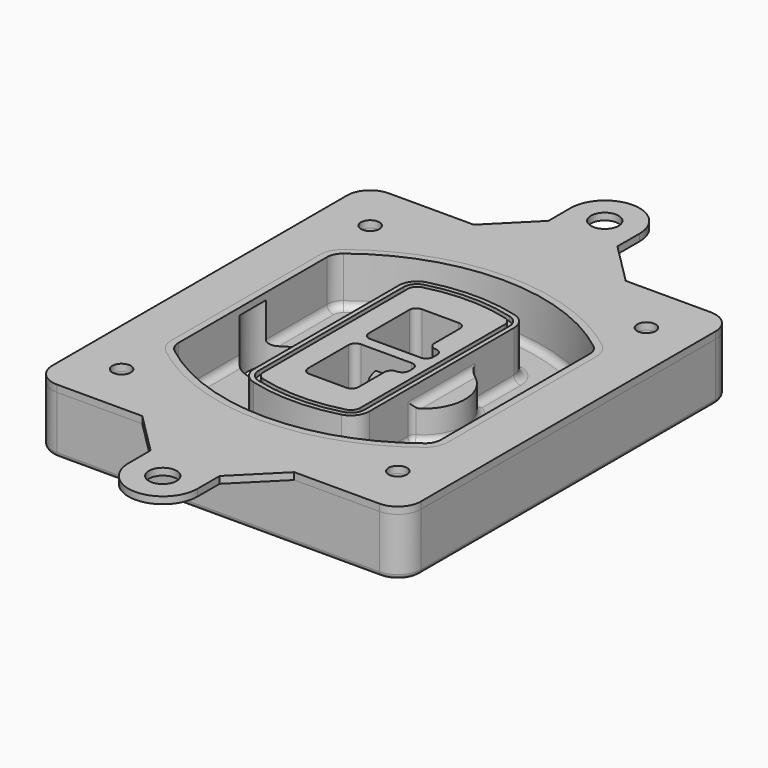
from build123d import *

# Parameters (mm, degrees)
F0_R      = 4
F1_DEPTH  = 25
F2_DEPTH  = 3
F3_DEPTH  = 18
F5_DEPTH  = 21
F6_DEPTH  = 2
F8_DEPTH  = 20
F9_DEPTH  = 16
F10_DEPTH = 25
F7_R      = 6
F7_R_2    = 4
F11_DEPTH = 6
F13_DEPTH = 9
F14_R     = 3
F15_R     = 2
F16_R     = 6
F16_R_2   = 4
F17_DEPTH = 3


with BuildPart() as f1:
    # F0 (on Top) → F1 (new body)
    with BuildSketch(Plane.XY):
        with BuildLine():
            ThreePointArc((-80, -80), (-77.0710678119, -87.0710678119), (-70, -90))
            Line((-70, -90), (70, -90))
            ThreePointArc((70, -90), (77.0710678119, -87.0710678119), (80, -80))
            Line((80, -80), (80, 80))
            ThreePointArc((80, 80), (77.0710678119, 87.0710678119), (70, 90))
            Line((70, 90), (-70, 90))
            ThreePointArc((-70, 90), (-77.0710678119, 87.0710678119), (-80, 80))
            Line((-80, 80), (-80, -80))
        make_face()
        with Locations((-60, -67.5)):
            Circle(F0_R, mode=Mode.SUBTRACT)
        with Locations((60, -67.5)):
            Circle(F0_R, mode=Mode.SUBTRACT)
        with Locations((-60, 67.5)):
            Circle(F0_R, mode=Mode.SUBTRACT)
        with BuildLine():
            ThreePointArc((-64, 40.2934422872), (-62.5820384798, 46.4328484224), (-58.6153846154, 51.3286200352))
            ThreePointArc((-58.6153846154, 51.3286200352), (0, 71.5), (58.6153846154, 51.3286200352))
            ThreePointArc((58.6153846154, 51.3286200352), (62.5820384798, 46.4328484224), (64, 40.2934422872))
            Line((64, 40.2934422872), (64, -40.2934422872))
            ThreePointArc((64, -40.2934422872), (62.5820384798, -46.4328484224), (58.6153846154, -51.3286200352))
            ThreePointArc((58.6153846154, -51.3286200352), (0, -71.5), (-58.6153846154, -51.3286200352))
            ThreePointArc((-58.6153846154, -51.3286200352), (-62.5820384798, -46.4328484224), (-64, -40.2934422872))
            Line((-64, -40.2934422872), (-64, 40.2934422872))
        make_face(mode=Mode.SUBTRACT)
        with Locations((60, 67.5)):
            Circle(F0_R, mode=Mode.SUBTRACT)
        with BuildLine():
            ThreePointArc((58.6153846154, 51.3286200352), (0, 71.5), (-58.6153846154, 51.3286200352))
            ThreePointArc((-58.6153846154, 51.3286200352), (-62.5820384798, 46.4328484224), (-64, 40.2934422872))
            Line((-64, 40.2934422872), (-64, -40.2934422872))
            ThreePointArc((-64, -40.2934422872), (-62.5820384798, -46.4328484224), (-58.6153846154, -51.3286200352))
            ThreePointArc((-58.6153846154, -51.3286200352), (0, -71.5), (58.6153846154, -51.3286200352))
            ThreePointArc((58.6153846154, -51.3286200352), (62.5820384798, -46.4328484224), (64, -40.2934422872))
            Line((64, -40.2934422872), (64, 40.2934422872))
            ThreePointArc((64, 40.2934422872), (62.5820384798, 46.4328484224), (58.6153846154, 51.3286200352))
        make_face()
        with BuildLine():
            Line((-60, -40.2934422872), (-60, 40.2934422872))
            ThreePointArc((-60, 40.2934422872), (-58.9871703427, 44.6787323838), (-56.1538461538, 48.1757121072))
            ThreePointArc((-56.1538461538, 48.1757121072), (0, 67.5), (56.1538461538, 48.1757121072))
            ThreePointArc((56.1538461538, 48.1757121072), (58.9871703427, 44.6787323838), (60, 40.2934422872))
            Line((60, 40.2934422872), (60, -40.2934422872))
            ThreePointArc((60, -40.2934422872), (58.9871703427, -44.6787323838), (56.1538461538, -48.1757121072))
            ThreePointArc((56.1538461538, -48.1757121072), (0, -67.5), (-56.1538461538, -48.1757121072))
            ThreePointArc((-56.1538461538, -48.1757121072), (-58.9871703427, -44.6787323838), (-60, -40.2934422872))
        make_face(mode=Mode.SUBTRACT)
        with BuildLine():
            ThreePointArc((-56.1538461538, 48.1757121072), (-58.9871703427, 44.6787323838), (-60, 40.2934422872))
            Line((-60, 40.2934422872), (-60, -40.2934422872))
            ThreePointArc((-60, -40.2934422872), (-58.9871703427, -44.6787323838), (-56.1538461538, -48.1757121072))
            ThreePointArc((-56.1538461538, -48.1757121072), (0, -67.5), (56.1538461538, -48.1757121072))
            ThreePointArc((56.1538461538, -48.1757121072), (58.9871703427, -44.6787323838), (60, -40.2934422872))
            Line((60, -40.2934422872), (60, 40.2934422872))
            ThreePointArc((60, 40.2934422872), (58.9871703427, 44.6787323838), (56.1538461538, 48.1757121072))
            ThreePointArc((56.1538461538, 48.1757121072), (0, 67.5), (-56.1538461538, 48.1757121072))
        make_face()
        with BuildLine():
            ThreePointArc((54.3076923077, 45.8110311612), (56.2910192399, 43.3631453548), (57, 40.2934422872))
            Line((57, 40.2934422872), (57, -40.2934422872))
            ThreePointArc((57, -40.2934422872), (56.2910192399, -43.3631453548), (54.3076923077, -45.8110311612))
            ThreePointArc((54.3076923077, -45.8110311612), (0, -64.5), (-54.3076923077, -45.8110311612))
            ThreePointArc((-54.3076923077, -45.8110311612), (-56.2910192399, -43.3631453548), (-57, -40.2934422872))
            Line((-57, -40.2934422872), (-57, 40.2934422872))
            ThreePointArc((-57, 40.2934422872), (-56.2910192399, 43.3631453548), (-54.3076923077, 45.8110311612))
            ThreePointArc((-54.3076923077, 45.8110311612), (0, 64.5), (54.3076923077, 45.8110311612))
        make_face(mode=Mode.SUBTRACT)
        with BuildLine():
            Line((57, -40.2934422872), (57, 40.2934422872))
            ThreePointArc((57, 40.2934422872), (56.2910192399, 43.3631453548), (54.3076923077, 45.8110311612))
            ThreePointArc((54.3076923077, 45.8110311612), (0, 64.5), (-54.3076923077, 45.8110311612))
            ThreePointArc((-54.3076923077, 45.8110311612), (-56.2910192399, 43.3631453548), (-57, 40.2934422872))
            Line((-57, 40.2934422872), (-57, -40.2934422872))
            ThreePointArc((-57, -40.2934422872), (-56.2910192399, -43.3631453548), (-54.3076923077, -45.8110311612))
            ThreePointArc((-54.3076923077, -45.8110311612), (0, -64.5), (54.3076923077, -45.8110311612))
            ThreePointArc((54.3076923077, -45.8110311612), (56.2910192399, -43.3631453548), (57, -40.2934422872))
        make_face()
    extrude(amount=-F1_DEPTH)

    # F0 (on Top) → F2 (join)
    with BuildSketch(Plane.XY):
        with BuildLine():
            ThreePointArc((-56.1538461538, 48.1757121072), (-58.9871703427, 44.6787323838), (-60, 40.2934422872))
            Line((-60, 40.2934422872), (-60, -40.2934422872))
            ThreePointArc((-60, -40.2934422872), (-58.9871703427, -44.6787323838), (-56.1538461538, -48.1757121072))
            ThreePointArc((-56.1538461538, -48.1757121072), (0, -67.5), (56.1538461538, -48.1757121072))
            ThreePointArc((56.1538461538, -48.1757121072), (58.9871703427, -44.6787323838), (60, -40.2934422872))
            Line((60, -40.2934422872), (60, 40.2934422872))
            ThreePointArc((60, 40.2934422872), (58.9871703427, 44.6787323838), (56.1538461538, 48.1757121072))
            ThreePointArc((56.1538461538, 48.1757121072), (0, 67.5), (-56.1538461538, 48.1757121072))
        make_face()
        with BuildLine():
            ThreePointArc((54.3076923077, 45.8110311612), (56.2910192399, 43.3631453548), (57, 40.2934422872))
            Line((57, 40.2934422872), (57, -40.2934422872))
            ThreePointArc((57, -40.2934422872), (56.2910192399, -43.3631453548), (54.3076923077, -45.8110311612))
            ThreePointArc((54.3076923077, -45.8110311612), (0, -64.5), (-54.3076923077, -45.8110311612))
            ThreePointArc((-54.3076923077, -45.8110311612), (-56.2910192399, -43.3631453548), (-57, -40.2934422872))
            Line((-57, -40.2934422872), (-57, 40.2934422872))
            ThreePointArc((-57, 40.2934422872), (-56.2910192399, 43.3631453548), (-54.3076923077, 45.8110311612))
            ThreePointArc((-54.3076923077, 45.8110311612), (0, 64.5), (54.3076923077, 45.8110311612))
        make_face(mode=Mode.SUBTRACT)
    extrude(amount=F2_DEPTH)

    # F0 (on Top) → F3 (cut)
    with BuildSketch(Plane.XY):
        with BuildLine():
            Line((57, -40.2934422872), (57, 40.2934422872))
            ThreePointArc((57, 40.2934422872), (56.2910192399, 43.3631453548), (54.3076923077, 45.8110311612))
            ThreePointArc((54.3076923077, 45.8110311612), (0, 64.5), (-54.3076923077, 45.8110311612))
            ThreePointArc((-54.3076923077, 45.8110311612), (-56.2910192399, 43.3631453548), (-57, 40.2934422872))
            Line((-57, 40.2934422872), (-57, -40.2934422872))
            ThreePointArc((-57, -40.2934422872), (-56.2910192399, -43.3631453548), (-54.3076923077, -45.8110311612))
            ThreePointArc((-54.3076923077, -45.8110311612), (0, -64.5), (54.3076923077, -45.8110311612))
            ThreePointArc((54.3076923077, -45.8110311612), (56.2910192399, -43.3631453548), (57, -40.2934422872))
        make_face()
    extrude(amount=-F3_DEPTH, mode=Mode.SUBTRACT)

    # F4 (on face) → F5 (join, through all)
    with BuildSketch(Plane.XY.offset(3)):
        with BuildLine():
            ThreePointArc((-25, -39.2465276821), (-23.3511545998, -44.1109737193), (-19.0842911877, -46.9702398883))
            ThreePointArc((-19.0842911877, -46.9702398883), (0, -49.5), (19.0842911877, -46.9702398883))
            ThreePointArc((19.0842911877, -46.9702398883), (23.3511545998, -44.1109737193), (25, -39.2465276821))
            Line((25, -39.2465276821), (25, 39.2465276821))
            ThreePointArc((25, 39.2465276821), (23.3511545998, 44.1109737193), (19.0842911877, 46.9702398883))
            ThreePointArc((19.0842911877, 46.9702398883), (0, 49.5), (-19.0842911877, 46.9702398883))
            ThreePointArc((-19.0842911877, 46.9702398883), (-23.3511545998, 44.1109737193), (-25, 39.2465276821))
            Line((-25, 39.2465276821), (-25, -39.2465276821))
        make_face()
        with BuildLine():
            ThreePointArc((18.5632183908, 45.0393118368), (21.7633659499, 42.89486221), (23, 39.2465276821))
            Line((23, 39.2465276821), (23, -39.2465276821))
            ThreePointArc((23, -39.2465276821), (21.7633659499, -42.89486221), (18.5632183908, -45.0393118368))
            ThreePointArc((18.5632183908, -45.0393118368), (0, -47.5), (-18.5632183908, -45.0393118368))
            ThreePointArc((-18.5632183908, -45.0393118368), (-21.7633659499, -42.89486221), (-23, -39.2465276821))
            Line((-23, -39.2465276821), (-23, 39.2465276821))
            ThreePointArc((-23, 39.2465276821), (-21.7633659499, 42.89486221), (-18.5632183908, 45.0393118368))
            ThreePointArc((-18.5632183908, 45.0393118368), (0, 47.5), (18.5632183908, 45.0393118368))
        make_face(mode=Mode.SUBTRACT)
        with BuildLine():
            Line((23, -39.2465276821), (23, 39.2465276821))
            ThreePointArc((23, 39.2465276821), (21.7633659499, 42.89486221), (18.5632183908, 45.0393118368))
            ThreePointArc((18.5632183908, 45.0393118368), (0, 47.5), (-18.5632183908, 45.0393118368))
            ThreePointArc((-18.5632183908, 45.0393118368), (-21.7633659499, 42.89486221), (-23, 39.2465276821))
            Line((-23, 39.2465276821), (-23, -39.2465276821))
            ThreePointArc((-23, -39.2465276821), (-21.7633659499, -42.89486221), (-18.5632183908, -45.0393118368))
            ThreePointArc((-18.5632183908, -45.0393118368), (0, -47.5), (18.5632183908, -45.0393118368))
            ThreePointArc((18.5632183908, -45.0393118368), (21.7633659499, -42.89486221), (23, -39.2465276821))
        make_face()
        with BuildLine():
            ThreePointArc((18.0421455939, 43.1083837852), (20.1755772999, 41.6787507007), (21, 39.2465276821))
            Line((21, 39.2465276821), (21, -39.2465276821))
            ThreePointArc((21, -39.2465276821), (20.1755772999, -41.6787507007), (18.0421455939, -43.1083837852))
            ThreePointArc((18.0421455939, -43.1083837852), (0, -45.5), (-18.0421455939, -43.1083837852))
            ThreePointArc((-18.0421455939, -43.1083837852), (-20.1755772999, -41.6787507007), (-21, -39.2465276821))
            Line((-21, -39.2465276821), (-21, 39.2465276821))
            ThreePointArc((-21, 39.2465276821), (-20.1755772999, 41.6787507007), (-18.0421455939, 43.1083837852))
            ThreePointArc((-18.0421455939, 43.1083837852), (0, 45.5), (18.0421455939, 43.1083837852))
        make_face(mode=Mode.SUBTRACT)
        with BuildLine():
            Line((21, -39.2465276821), (21, 39.2465276821))
            ThreePointArc((21, 39.2465276821), (20.1755772999, 41.6787507007), (18.0421455939, 43.1083837852))
            ThreePointArc((18.0421455939, 43.1083837852), (0, 45.5), (-18.0421455939, 43.1083837852))
            ThreePointArc((-18.0421455939, 43.1083837852), (-20.1755772999, 41.6787507007), (-21, 39.2465276821))
            Line((-21, 39.2465276821), (-21, -39.2465276821))
            ThreePointArc((-21, -39.2465276821), (-20.1755772999, -41.6787507007), (-18.0421455939, -43.1083837852))
            ThreePointArc((-18.0421455939, -43.1083837852), (0, -45.5), (18.0421455939, -43.1083837852))
            ThreePointArc((18.0421455939, -43.1083837852), (20.1755772999, -41.6787507007), (21, -39.2465276821))
        make_face()
        with BuildLine():
            Line((-8, -2.5), (14, -2.5))
            ThreePointArc((14, -2.5), (16.1213203436, -3.3786796564), (17, -5.5))
            Line((17, -5.5), (17, -7.5))
            ThreePointArc((17, -7.5), (16.1213203436, -9.6213203436), (14, -10.5))
            ThreePointArc((14, -10.5), (11.8786796564, -11.3786796564), (11, -13.5))
            Line((11, -13.5), (11, -27.5))
            ThreePointArc((11, -27.5), (10.1213203436, -29.6213203436), (8, -30.5))
            Line((8, -30.5), (-8, -30.5))
            ThreePointArc((-8, -30.5), (-10.1213203436, -29.6213203436), (-11, -27.5))
            Line((-11, -27.5), (-11, -5.5))
            ThreePointArc((-11, -5.5), (-10.1213203436, -3.3786796564), (-8, -2.5))
        make_face(mode=Mode.SUBTRACT)
        with BuildLine():
            ThreePointArc((-8, 2.5), (-10.1213203436, 3.3786796564), (-11, 5.5))
            Line((-11, 5.5), (-11, 27.5))
            ThreePointArc((-11, 27.5), (-10.1213203436, 29.6213203436), (-8, 30.5))
            Line((-8, 30.5), (8, 30.5))
            ThreePointArc((8, 30.5), (10.1213203436, 29.6213203436), (11, 27.5))
            Line((11, 27.5), (11, 13.5))
            ThreePointArc((11, 13.5), (11.8786796564, 11.3786796564), (14, 10.5))
            ThreePointArc((14, 10.5), (16.1213203436, 9.6213203436), (17, 7.5))
            Line((17, 7.5), (17, 5.5))
            ThreePointArc((17, 5.5), (16.1213203436, 3.3786796564), (14, 2.5))
            Line((14, 2.5), (-8, 2.5))
        make_face(mode=Mode.SUBTRACT)
    extrude(amount=-F5_DEPTH)

    # F4 (on face) → F6 (cut)
    with BuildSketch(Plane.XY.offset(3)):
        with BuildLine():
            Line((23, -39.2465276821), (23, 39.2465276821))
            ThreePointArc((23, 39.2465276821), (21.7633659499, 42.89486221), (18.5632183908, 45.0393118368))
            ThreePointArc((18.5632183908, 45.0393118368), (0, 47.5), (-18.5632183908, 45.0393118368))
            ThreePointArc((-18.5632183908, 45.0393118368), (-21.7633659499, 42.89486221), (-23, 39.2465276821))
            Line((-23, 39.2465276821), (-23, -39.2465276821))
            ThreePointArc((-23, -39.2465276821), (-21.7633659499, -42.89486221), (-18.5632183908, -45.0393118368))
            ThreePointArc((-18.5632183908, -45.0393118368), (0, -47.5), (18.5632183908, -45.0393118368))
            ThreePointArc((18.5632183908, -45.0393118368), (21.7633659499, -42.89486221), (23, -39.2465276821))
        make_face()
        with BuildLine():
            ThreePointArc((18.0421455939, 43.1083837852), (20.1755772999, 41.6787507007), (21, 39.2465276821))
            Line((21, 39.2465276821), (21, -39.2465276821))
            ThreePointArc((21, -39.2465276821), (20.1755772999, -41.6787507007), (18.0421455939, -43.1083837852))
            ThreePointArc((18.0421455939, -43.1083837852), (0, -45.5), (-18.0421455939, -43.1083837852))
            ThreePointArc((-18.0421455939, -43.1083837852), (-20.1755772999, -41.6787507007), (-21, -39.2465276821))
            Line((-21, -39.2465276821), (-21, 39.2465276821))
            ThreePointArc((-21, 39.2465276821), (-20.1755772999, 41.6787507007), (-18.0421455939, 43.1083837852))
            ThreePointArc((-18.0421455939, 43.1083837852), (0, 45.5), (18.0421455939, 43.1083837852))
        make_face(mode=Mode.SUBTRACT)
    extrude(amount=-F6_DEPTH, mode=Mode.SUBTRACT)

    # F7 (on face) → F8 (join)
    with BuildSketch(Plane(origin=(0, 0, -25), x_dir=(1, 0, 0), z_dir=(0, 0, -1))):
        with BuildLine():
            ThreePointArc((3.28842436, 0), (16.7567035675, 13.4682792075), (30.224982775, 0))
            Line((30.224982775, 0), (35.224982775, 0))
            ThreePointArc((35.224982775, 0), (16.7567035675, 18.4682792075), (-1.71157564, 0))
            Line((-1.71157564, 0), (3.28842436, 0))
        make_face()
        with BuildLine():
            Line((3.28842436, 0), (30.224982775, 0))
            ThreePointArc((30.224982775, 0), (16.7567035675, 13.4682792075), (3.28842436, 0))
        make_face()
        with BuildLine():
            ThreePointArc((3.28842436, 0), (16.7567035675, -13.4682792075), (30.224982775, 0))
            Line((30.224982775, 0), (3.28842436, 0))
        make_face()
        with BuildLine():
            Line((35.224982775, 0), (30.224982775, 0))
            ThreePointArc((30.224982775, 0), (16.7567035675, -13.4682792075), (3.28842436, 0))
            Line((3.28842436, 0), (-1.71157564, 0))
            ThreePointArc((-1.71157564, 0), (16.7567035675, -18.4682792075), (35.224982775, 0))
        make_face()
    extrude(amount=-F8_DEPTH)

    # F7 (on face) → F9 (cut)
    with BuildSketch(Plane(origin=(0, 0, -25), x_dir=(1, 0, 0), z_dir=(0, 0, -1))):
        with BuildLine():
            Line((3.28842436, 0), (30.224982775, 0))
            ThreePointArc((30.224982775, 0), (16.7567035675, 13.4682792075), (3.28842436, 0))
        make_face()
        with BuildLine():
            ThreePointArc((3.28842436, 0), (16.7567035675, -13.4682792075), (30.224982775, 0))
            Line((30.224982775, 0), (3.28842436, 0))
        make_face()
    extrude(amount=-F9_DEPTH, mode=Mode.SUBTRACT)

    # F7 (on face) → F10 (cut)
    with BuildSketch(Plane(origin=(0, 0, -25), x_dir=(1, 0, 0), z_dir=(0, 0, -1))):
        with BuildLine():
            Line((-59.0318229325, 0), (-32.0952645175, 0))
            ThreePointArc((-32.0952645175, 0), (-45.563543725, 13.4682792075), (-59.0318229325, 0))
        make_face()
        with BuildLine():
            ThreePointArc((-59.0318229325, 0), (-45.563543725, -13.4682792075), (-32.0952645175, 0))
            Line((-32.0952645175, 0), (-59.0318229325, 0))
        make_face()
    extrude(amount=-F10_DEPTH, mode=Mode.SUBTRACT)

    # F7 (on face) → F11 (cut)
    with BuildSketch(Plane(origin=(0, 0, -25), x_dir=(1, 0, 0), z_dir=(0, 0, -1))):
        with Locations((60, -67.5)):
            Circle(F7_R)
        with Locations((60, -67.5)):
            Circle(F7_R_2, mode=Mode.SUBTRACT)
        with Locations((60, -67.5)):
            Circle(F7_R)
        with Locations((60, -67.5)):
            Circle(F7_R_2, mode=Mode.SUBTRACT)
        with Locations((-60, -67.5)):
            Circle(F7_R)
        with Locations((-60, -67.5)):
            Circle(F7_R_2, mode=Mode.SUBTRACT)
        with Locations((-60, -67.5)):
            Circle(F7_R)
        with Locations((-60, -67.5)):
            Circle(F7_R_2, mode=Mode.SUBTRACT)
        with Locations((-60, 67.5)):
            Circle(F7_R)
        with Locations((-60, 67.5)):
            Circle(F7_R_2, mode=Mode.SUBTRACT)
        with Locations((-60, 67.5)):
            Circle(F7_R)
        with Locations((-60, 67.5)):
            Circle(F7_R_2, mode=Mode.SUBTRACT)
        with Locations((60, 67.5)):
            Circle(F7_R)
        with Locations((60, 67.5)):
            Circle(F7_R_2, mode=Mode.SUBTRACT)
        with Locations((60, 67.5)):
            Circle(F7_R)
        with Locations((60, 67.5)):
            Circle(F7_R_2, mode=Mode.SUBTRACT)
    extrude(amount=-F11_DEPTH, mode=Mode.SUBTRACT)

    # F12 (on face) → F13 (cut, through all)
    with BuildSketch(Plane(origin=(0, 0, -9), x_dir=(1, 0, 0), z_dir=(0, 0, -1))):
        with BuildLine():
            Line((11, 13.5), (11, 17.5481537753))
            ThreePointArc((11, 17.5481537753), (2.5696536419, 11.8239143813), (-1.5415842455, 2.5))
            Line((-1.5415842455, 2.5), (3.5224848595, 2.5))
            ThreePointArc((3.5224848595, 2.5), (6.1857188154, 8.3455872281), (11.2536447004, 12.2927168648))
            ThreePointArc((11.2536447004, 12.2927168648), (11.0640958889, 12.8831798879), (11, 13.5))
        make_face()
        with BuildLine():
            ThreePointArc((11.2536447004, -12.2927168648), (6.1857188154, -8.3455872281), (3.5224848595, -2.5))
            Line((3.5224848595, -2.5), (-1.5415842455, -2.5))
            ThreePointArc((-1.5415842455, -2.5), (2.5696536419, -11.8239143813), (11, -17.5481537753))
            Line((11, -17.5481537753), (11, -13.5))
            ThreePointArc((11, -13.5), (11.0640958889, -12.8831798879), (11.2536447004, -12.2927168648))
        make_face()
        with BuildLine():
            ThreePointArc((11.2536447004, 12.2927168648), (6.1857188154, 8.3455872281), (3.5224848595, 2.5))
            Line((3.5224848595, 2.5), (14, 2.5))
            ThreePointArc((14, 2.5), (16.1213203436, 3.3786796564), (17, 5.5))
            Line((17, 5.5), (17, 7.5))
            ThreePointArc((17, 7.5), (16.1213203436, 9.6213203436), (14, 10.5))
            ThreePointArc((14, 10.5), (12.3601599782, 10.9878446101), (11.2536447004, 12.2927168648))
        make_face()
        with BuildLine():
            Line((14, -2.5), (3.5224848595, -2.5))
            ThreePointArc((3.5224848595, -2.5), (6.1857188154, -8.3455872281), (11.2536447004, -12.2927168648))
            ThreePointArc((11.2536447004, -12.2927168648), (12.3601599782, -10.9878446101), (14, -10.5))
            ThreePointArc((14, -10.5), (16.1213203436, -9.6213203436), (17, -7.5))
            Line((17, -7.5), (17, -5.5))
            ThreePointArc((17, -5.5), (16.1213203436, -3.3786796564), (14, -2.5))
        make_face()
    extrude(amount=F13_DEPTH, mode=Mode.SUBTRACT)

    # F14
    f14_edges = [f1.edges().sort_by_distance(p)[0] for p in [
        (-57, -23.703476, -18),
        (-57, 23.703476, -18),
        (25, 0, -5),
        (25, 16.526506, -11.5),
        (25, -16.526506, -11.5),
        (25, -27.886517, -18),
        (35.224983, 0, -18),
    ]]
    fillet(f14_edges, radius=F14_R)

    # F15
    f15_edges = [f1.edges().sort_by_distance(p)[0] for p in [
        (0, -90, -25),
    ]]
    fillet(f15_edges, radius=F15_R)


with BuildPart() as f17:
    # F16 (on face) → F17 (new body, through all)
    with BuildSketch(Plane.XY):
        with BuildLine():
            Line((-15, 108), (-33, 90))
            Line((-33, 90), (33, 90))
            Line((33, 90), (15, 108))
            Line((15, 108), (15, 120))
            ThreePointArc((15, 120), (0, 135), (-15, 120))
            Line((-15, 120), (-15, 108))
        make_face()
        with Locations((-0.1, 120)):
            Circle(F16_R, mode=Mode.SUBTRACT)
        with BuildLine():
            Line((33, 90), (-33, 90))
            Line((-33, 90), (-70, 90))
            ThreePointArc((-70, 90), (-77.0710678119, 87.0710678119), (-80, 80))
            Line((-80, 80), (-80, -80))
            ThreePointArc((-80, -80), (-77.0710678119, -87.0710678119), (-70, -90))
            Line((-70, -90), (-33, -90))
            Line((-33, -90), (33, -90))
            Line((33, -90), (70, -90))
            ThreePointArc((70, -90), (77.0710678119, -87.0710678119), (80, -80))
            Line((80, -80), (80, 80))
            ThreePointArc((80, 80), (77.0710678119, 87.0710678119), (70, 90))
            Line((70, 90), (33, 90))
        make_face()
        with Locations((-60, -67.5)):
            Circle(F16_R_2, mode=Mode.SUBTRACT)
        with Locations((60, -67.5)):
            Circle(F16_R_2, mode=Mode.SUBTRACT)
        with Locations((-60, 67.5)):
            Circle(F16_R_2, mode=Mode.SUBTRACT)
        with BuildLine():
            ThreePointArc((-60, 40.2934422872), (-58.9871703427, 44.6787323838), (-56.1538461538, 48.1757121072))
            ThreePointArc((-56.1538461538, 48.1757121072), (0, 67.5), (56.1538461538, 48.1757121072))
            ThreePointArc((56.1538461538, 48.1757121072), (58.9871703427, 44.6787323838), (60, 40.2934422872))
            Line((60, 40.2934422872), (60, -40.2934422872))
            ThreePointArc((60, -40.2934422872), (58.9871703427, -44.6787323838), (56.1538461538, -48.1757121072))
            ThreePointArc((56.1538461538, -48.1757121072), (0, -67.5), (-56.1538461538, -48.1757121072))
            ThreePointArc((-56.1538461538, -48.1757121072), (-58.9871703427, -44.6787323838), (-60, -40.2934422872))
            Line((-60, -40.2934422872), (-60, 40.2934422872))
        make_face(mode=Mode.SUBTRACT)
        with Locations((60, 67.5)):
            Circle(F16_R_2, mode=Mode.SUBTRACT)
        with BuildLine():
            Line((33, -90), (-33, -90))
            Line((-33, -90), (-15, -108))
            Line((-15, -108), (-15, -120))
            ThreePointArc((-15, -120), (0, -135), (15, -120))
            Line((15, -120), (15, -108))
            Line((15, -108), (33, -90))
        make_face()
        with Locations((-0.1, -120)):
            Circle(F16_R, mode=Mode.SUBTRACT)
    extrude(amount=F17_DEPTH)


solid = Compound([f1.part, f17.part])
